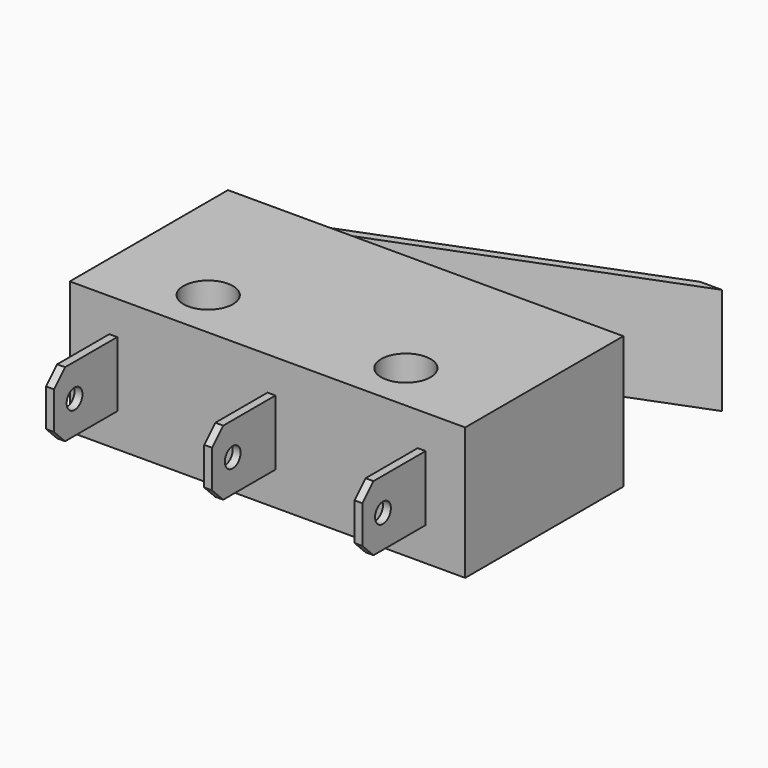
from build123d import *

# Parameters (mm, degrees)
F0_R     = 1.25
F1_DEPTH = 6.7
F2_W     = 0.4
F2_H     = 3.3
F3_W     = 1.1
F3_H     = 5.4
F6_R     = 0.5
F7_DEPTH = 25
F8_SIZE  = 0.7


with BuildPart() as f1:
    # F0 (on Top) → F1 (new body)
    with BuildSketch(Plane.XY):
        Polygon((-7, 5), (-10, 5), (-10, -5), (-8, -5), (0, -5), (8, -5), (10, -5), (10, 5), align=None)
        with Locations((-5, -2.5)):
            Circle(F0_R, mode=Mode.SUBTRACT)
        with Locations((5, -2.5)):
            Circle(F0_R, mode=Mode.SUBTRACT)
    extrude(amount=F1_DEPTH)

    # F4: sweep along a path in F0
    with BuildLine(Plane.XY) as f4_path:
        Line((-8, -5), (-8, -9))
    # F2 (on face) → F4 (sweep)
    with BuildSketch(Plane.XZ.offset(5)):
        with Locations((-7.8, 3.35)):
            Rectangle(F2_W, F2_H)
        with Locations((0.2, 3.35)):
            Rectangle(F2_W, F2_H)
        with Locations((7.8, 3.35)):
            Rectangle(F2_W, F2_H)
    sweep(path=f4_path.line)

    # F5: sweep along a path in F0
    with BuildLine(Plane.XY) as f5_path:
        Line((-7, 5), (9.7854103316, 11.5))
    # F3 (on face) → F5 (sweep)
    with BuildSketch(Plane(origin=(0, 5, 0), x_dir=(-1, 0, 0), z_dir=(0, 1, 0))):
        with Locations((7.55, 3.35)):
            Rectangle(F3_W, F3_H)
    sweep(path=f5_path.line)

    # F6 (on face) → F7 (cut)
    with BuildSketch(Plane.YZ.offset(8)):
        with Locations((-7.7, 3.35)):
            Circle(F6_R)
    extrude(amount=-F7_DEPTH, mode=Mode.SUBTRACT)

    # F8
    f8_edges = [f1.edges().sort_by_distance(p)[0] for p in [
        (-7.8, -9, 5),
        (0.2, -9, 5),
        (7.8, -9, 5),
        (-7.8, -9, 1.7),
        (0.2, -9, 1.7),
        (7.8, -9, 1.7),
    ]]
    chamfer(f8_edges, length=F8_SIZE)


solid = f1.part
